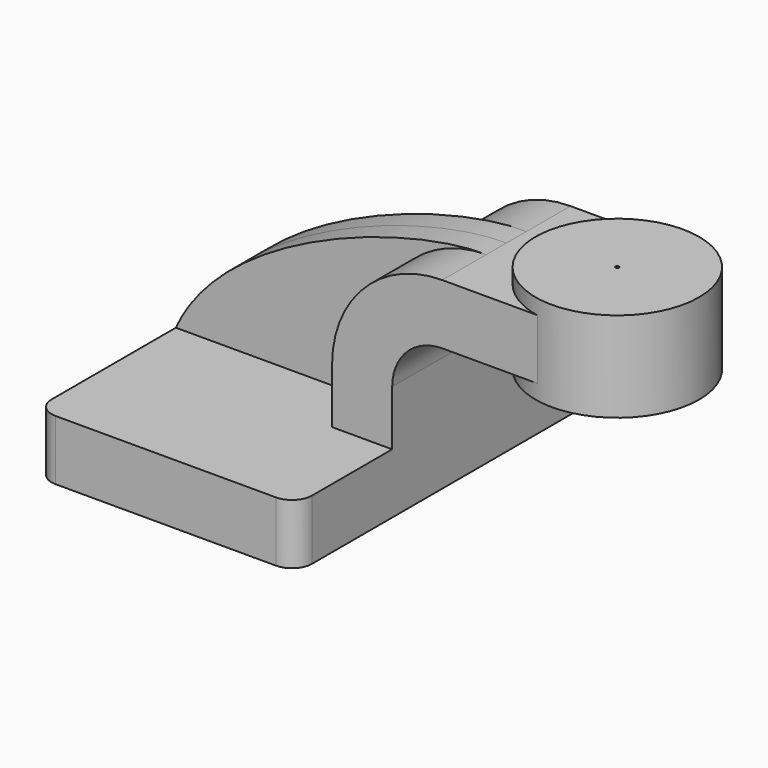
from build123d import *

# Parameters (mm, degrees)
F1_DEPTH = 63.5
F2_DEPTH = 25.4
F3_DEPTH = 7.9375
F5_R     = 6.35


with BuildPart() as f1:
    # F0 (on Front) → F1 (new body, symmetric)
    with BuildSketch(Plane.XZ):
        Polygon((41.275, -9.525), (41.275, 9.525), (22.225, 9.525), (-41.275, 9.525), (-41.275, -9.525), align=None)
    extrude(amount=F1_DEPTH, both=True)

    # F0 (on Front) → F2 (join, symmetric)
    with BuildSketch(Plane.XZ):
        with BuildLine():
            Line((22.225, 9.525), (41.275, 9.525))
            Line((41.275, 9.525), (41.275, 27.0002))
            ThreePointArc((41.275, 27.0002), (45.9246798487, 38.2255201513), (57.15, 42.8752))
            Line((57.15, 42.8752), (67.4716901156, 42.8752))
            Line((67.4716901156, 42.8752), (67.4716901156, 61.9252))
            Line((67.4716901156, 61.9252), (57.15, 61.9252))
            ThreePointArc((57.15, 61.9252), (32.4542956671, 51.6959043329), (22.225, 27.0002))
            Line((22.225, 27.0002), (22.225, 9.525))
        make_face()
        Polygon((67.4716901156, 61.9252), (67.4716901156, 42.8752), (92.329, 42.8752), (92.7633837638, 61.9252), align=None)
    extrude(amount=F2_DEPTH, both=True)

    # F0 (on Front) → F3 (join, symmetric)
    with BuildSketch(Plane.XZ):
        with BuildLine():
            Line((-41.275, 9.525), (22.225, 9.525))
            Line((22.225, 9.525), (22.225, 27.0002))
            ThreePointArc((22.225, 27.0002), (32.4542956671, 51.6959043329), (57.15, 61.9252))
            add(Edge.make_bspline(
                [(57.15, 61.9252), (33.2918353379, 62.5275820494), (-25.9740035981, 43.6129495502), (-41.275, 9.525)],
                knots=[0, 0, 0, 0, 111.5045361635, 111.5045361635, 111.5045361635, 111.5045361635], degree=3))
        make_face()
    extrude(amount=F3_DEPTH, both=True)

    # F5
    f5_edges = [f1.edges().sort_by_distance(p)[0] for p in [
        (41.275, -63.5, 0),
        (-41.275, -63.5, 0),
        (-41.275, 63.5, 0),
        (41.275, 63.5, 0),
    ]]
    fillet(f5_edges, radius=F5_R)


with BuildPart() as f4:
    # F0 (on Front) → F4 (revolve)
    with BuildSketch(Plane.XZ):
        Polygon((92.7633837638, 61.9252), (92.329, 42.8752), (92.329, 38.1), (118.2716901156, 38.1), (118.2716901156, 66.675), (92.8716901156, 66.675), align=None)
    revolve(axis=Axis((92.329, 0, 40.4876), (0, 0, -1)))


solid = Compound([f1.part, f4.part])
